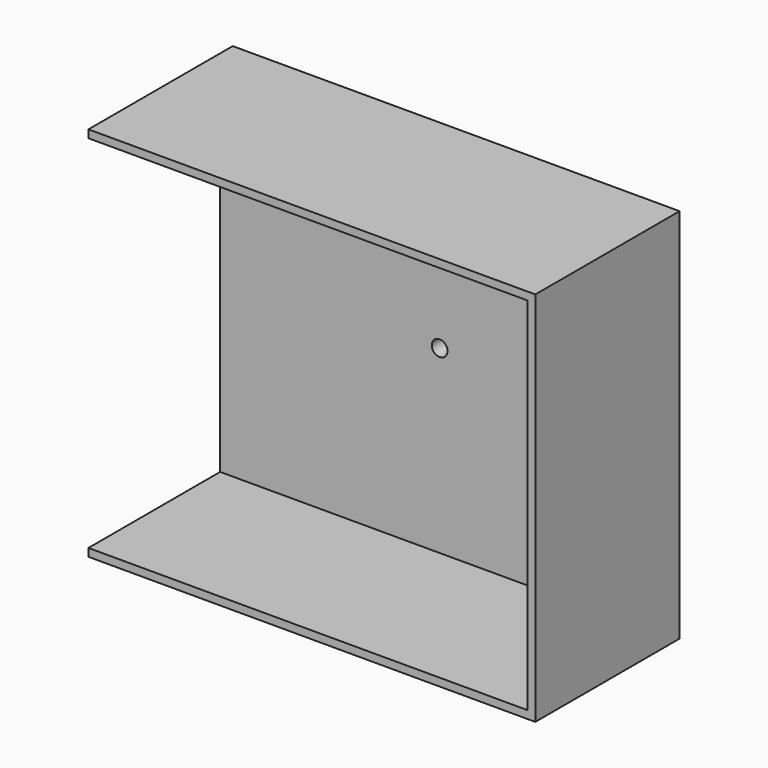
from build123d import *

# Parameters (mm, degrees)
F0_W     = 71.12
F0_H     = 58.42
F0_H_2   = 1.27
F1_DEPTH = 29.21
F2_DEPTH = 29.211
F3_DEPTH = 2.54
F4_R     = 1.27
F5_DEPTH = 2.541


with BuildPart() as f1:
    # F0 (on Front) → F1 (new body)
    with BuildSketch(Plane.XZ):
        with Locations((35.56, 29.21)):
            Rectangle(F0_W, F0_H)
        with Locations((35.56, -0.635)):
            Rectangle(F0_W, F0_H_2)
        Polygon((71.12, 58.42), (71.12, 0), (71.12, -1.27), (72.39, -1.27), (72.39, 59.69), (71.12, 59.69), align=None)
        with Locations((35.56, 59.055)):
            Rectangle(F0_W, F0_H_2)
    extrude(amount=F1_DEPTH)

    # F0 (on Front) → F2 (cut, through all)
    with BuildSketch(Plane.XZ):
        with Locations((35.56, 29.21)):
            Rectangle(F0_W, F0_H)
    extrude(amount=F2_DEPTH, mode=Mode.SUBTRACT)

    # F0 (on Front) → F3 (join)
    with BuildSketch(Plane.XZ):
        with Locations((35.56, 29.21)):
            Rectangle(F0_W, F0_H)
    extrude(amount=F3_DEPTH)

    # F4 (on face) → F5 (cut, through all)
    with BuildSketch(Plane.XZ.offset(2.54)):
        with Locations((35.56, 29.21)):
            Circle(F4_R)
    extrude(amount=-F5_DEPTH, mode=Mode.SUBTRACT)


solid = f1.part
